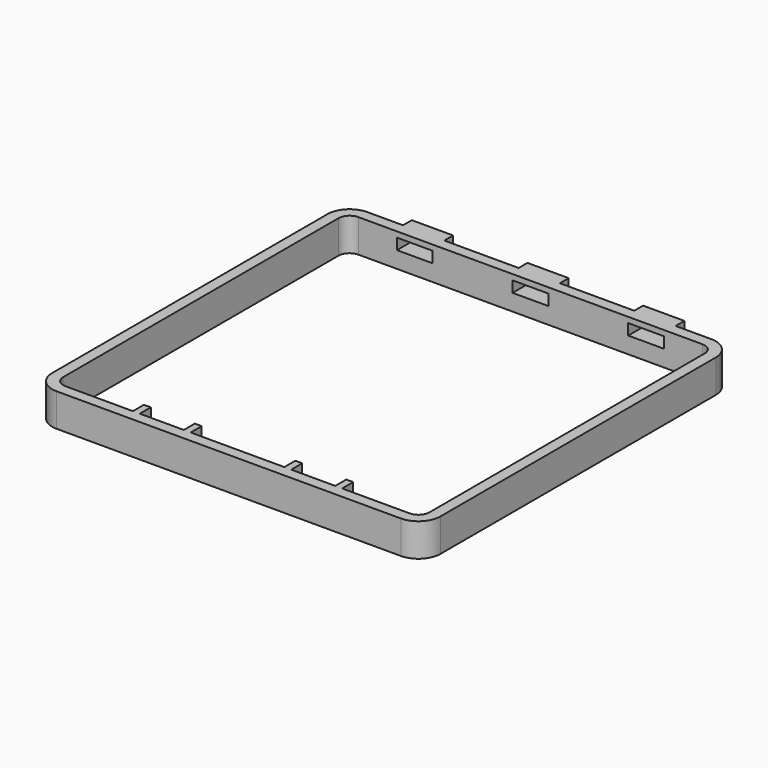
from build123d import *

# Parameters (mm, degrees)
F1_DEPTH = 12
F2_W     = 13
F2_H     = 4
F3_DEPTH = 8
F4_DEPTH = 25
F6_DEPTH = 5


with BuildPart() as f1:
    # F0 (on Top) → F1 (new body)
    with BuildSketch(Plane.XY):
        with BuildLine():
            Line((64, 72.6), (-61, 72.6))
            ThreePointArc((-61, 72.6), (-66.656854, 70.256854), (-69, 64.6))
            Line((-69, 64.6), (-69, -60.4))
            ThreePointArc((-69, -60.4), (-66.656854, -66.056855), (-61, -68.4))
            Line((-61, -68.4), (64, -68.4))
            ThreePointArc((64, -68.4), (69.656854, -66.056855), (72, -60.4))
            Line((72, -60.4), (72, 64.6))
            ThreePointArc((72, 64.6), (69.656854, 70.256854), (64, 72.6))
        make_face()
        with BuildLine():
            Line((64, -64.4), (-61, -64.4))
            ThreePointArc((-61, -64.4), (-63.828427, -63.228428), (-65, -60.4))
            Line((-65, -60.4), (-65, 64.6))
            ThreePointArc((-65, 64.6), (-63.828427, 67.428427), (-61, 68.6))
            Line((-61, 68.6), (64, 68.6))
            ThreePointArc((64, 68.6), (66.828427, 67.428427), (68, 64.6))
            Line((68, 64.6), (68, -60.4))
            ThreePointArc((68, -60.4), (66.828427, -63.228428), (64, -64.4))
        make_face(mode=Mode.SUBTRACT)
    extrude(amount=F1_DEPTH)

    # F2 (on face) → F3 (join)
    with BuildSketch(Plane.XZ.offset(-68.6)):
        Polygon((-48, 12), (-48, 6), (-48, 0), (-47.4, 0), (-47.4, 5), (-41.2, 5), (-41.2, 0), (-40.6, 0), (-40.6, 5), (-33.6, 5), (-33.6, 0), (-33, 0), (-33, 12), align=None)
        with Locations((-40.5, 8)):
            Rectangle(F2_W, F2_H, mode=Mode.SUBTRACT)
        Polygon((9, 12), (-6, 12), (-6, 6), (-6, 0), (-5.4, 0), (-5.4, 5), (0.9, 5), (0.9, 0), (1.5, 0), (1.5, 5), (8.4, 5), (8.4, 0), (9, 0), align=None)
        with Locations((1.5, 8)):
            Rectangle(F2_W, F2_H, mode=Mode.SUBTRACT)
        Polygon((51, 12), (36, 12), (36, 0), (36.6, 0), (36.6, 5), (42.9, 5), (42.9, 0), (43.5, 0), (43.5, 5), (50.4, 5), (50.4, 0), (51, 0), (51, 6), align=None)
        with Locations((43.5, 8)):
            Rectangle(F2_W, F2_H, mode=Mode.SUBTRACT)
    extrude(amount=-F3_DEPTH)

    # F2 (on face) → F4 (cut)
    with BuildSketch(Plane.XZ.offset(-68.6)):
        with Locations((43.5, 8)):
            Rectangle(F2_W, F2_H)
        with Locations((1.5, 8)):
            Rectangle(F2_W, F2_H)
        with Locations((-40.5, 8)):
            Rectangle(F2_W, F2_H)
    extrude(amount=-F4_DEPTH, mode=Mode.SUBTRACT)

    # F5 (on face) → F6 (join)
    with BuildSketch(Plane(origin=(0, -64.4, 0), x_dir=(-1, 0, 0), z_dir=(0, 1, 0))):
        Polygon((-18.5, 4), (-18.5, 12), (-21, 12), (-21, 6.5), (-37, 6.5), (-37, 12), (-39.5, 12), (-39.5, 4), (-39.5, 0), (-38.9, 0), (-38.9, 4), (-29.7, 4), (-29.7, 0), (-29.1, 0), (-29.1, 4), (-19.1, 4), (-19.1, 0), (-18.5, 0), align=None)
        Polygon((18, 12), (15.5, 12), (15.5, 4), (15.5, 0), (16.1, 0), (16.1, 4), (24.702823, 4), (24.702823, 0), (25.302823, 0), (25.302823, 4), (35.9, 4), (35.9, 0), (36.5, 0), (36.5, 4), (36.5, 12), (34, 12), (34, 6.5), (18, 6.5), align=None)
    extrude(amount=F6_DEPTH)


solid = f1.part
